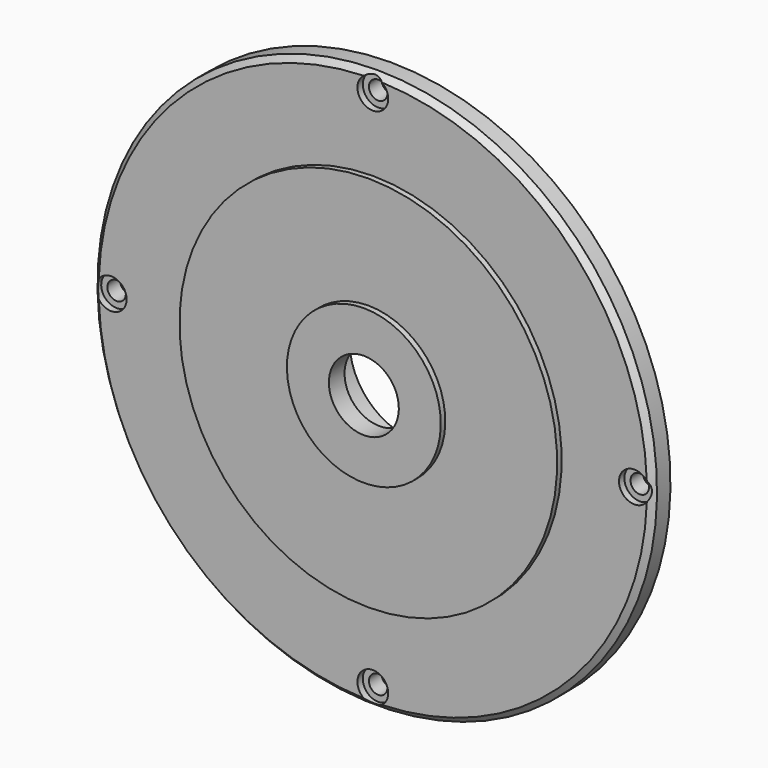
from build123d import *

# Parameters (mm, degrees)
HOLE_D             = 6.6
HOLE_CBORE_D       = 11
HOLE_CBORE_DEPTH   = 6.4
POLARPATTERN_COUNT = 4


with BuildPart() as part:
    # Sketch → Revolution (revolve)
    with BuildSketch(Plane.YZ):
        Polygon((6, 100), (12, 100), (12, 88), (15, 88), (15, 85), (8, 85), (8, 28.5), (23, 28.5), (23, 23.5), (10, 23.5), (10, 21.5), (7, 21.5), (7, 12.5), (0, 12.5), (0, 27.5), (2, 27.5), (2, 67.5), (4, 67.5), (4, 98), align=None)
    revolve(axis=Axis((0, 0, 0), (0, 1, 0)))

    # Hole (through all)
    with Locations(Plane.XZ):
        with Locations((0, 93.5)):
            hole = CounterBoreHole(HOLE_D / 2, HOLE_CBORE_D / 2, HOLE_CBORE_DEPTH)

    # PolarPattern: Hole ×4 about axis
    polarpattern_axis = Axis((0, 0, 0), (0, 1, 0))
    for i in range(1, POLARPATTERN_COUNT):
        add(hole.rotate(polarpattern_axis, i * 360 / POLARPATTERN_COUNT), mode=Mode.SUBTRACT)


solid = part.part
